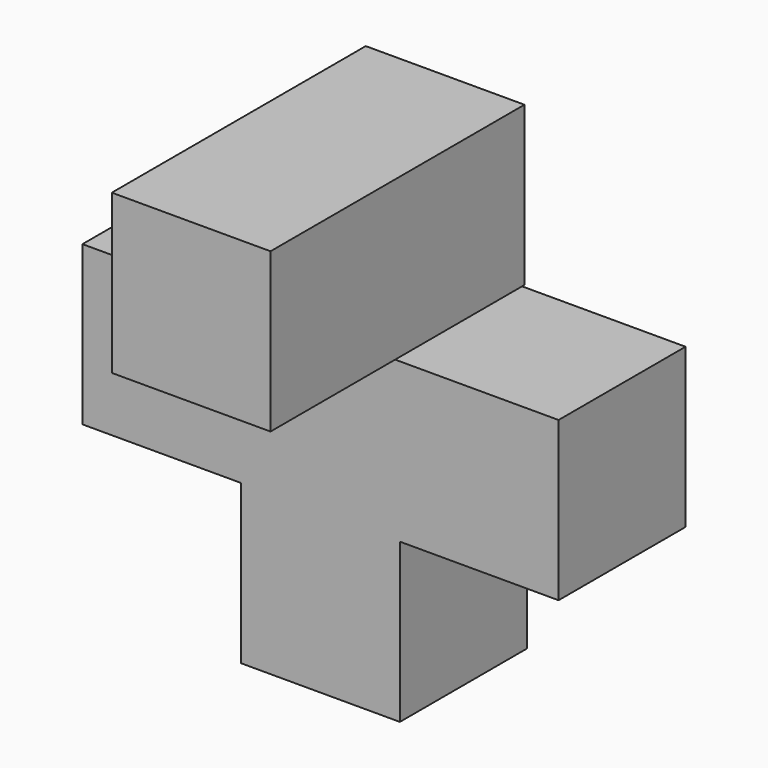
from build123d import *

# Parameters (mm, degrees)
F0_W     = 19.05
F0_H     = 19.05
F2_DEPTH = 19.05
F1_W     = 19.05
F1_H     = 19.05
F3_DEPTH = 38.1


with BuildPart() as f2:
    # F0 (on Front) → F2 (new body)
    with BuildSketch(Plane.XZ):
        with Locations((-24.190891, 34.185615)):
            Rectangle(F0_W, F0_H)
        with Locations((-5.140891, 34.185615)):
            Rectangle(F0_W, F0_H)
        with Locations((-5.140891, 15.135615)):
            Rectangle(F0_W, F0_H)
        with Locations((13.909109, 34.185615)):
            Rectangle(F0_W, F0_H)
    extrude(amount=F2_DEPTH)


with BuildPart() as f3:
    # F1 (on Front) → F3 (new body)
    with BuildSketch(Plane.XZ):
        with Locations((-5.427946, 53.470477)):
            Rectangle(F1_W, F1_H)
    extrude(amount=F3_DEPTH)


solid = Compound([f2.part, f3.part])
